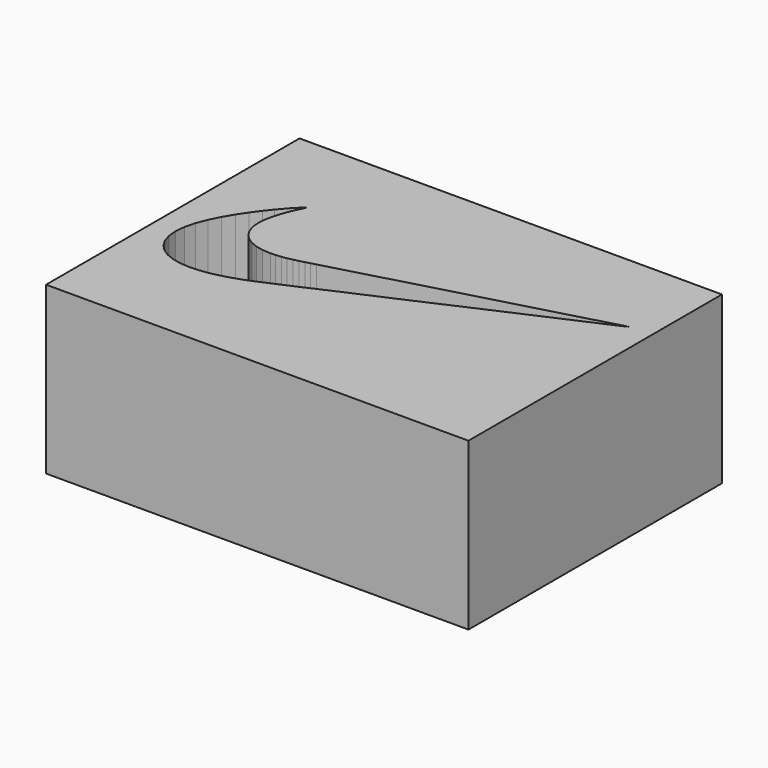
from build123d import *

# Parameters (mm, degrees)
F0_W     = 50.8
F0_H     = 38.1
F1_DEPTH = 15
F2_W     = 50.8
F2_H     = 38.1
F3_DEPTH = 5


with BuildPart() as f1:
    # F0 (on Top) → F1 (new body)
    with BuildSketch(Plane.XY):
        with Locations((0.006754, -0.385052)):
            Rectangle(F0_W, F0_H)
        Polygon((-22.587001, -4.469536), (-22.693503, -3.320542), (-22.574301, -2.117649), (-22.246311, -0.874547), (-21.750706, 0.381152), (-21.128711, 1.621739), (-20.421321, 2.819552), (-19.669709, 3.946957), (-18.915101, 4.976343), (-18.198617, 5.879948), (-17.14312, 7.106056), (-16.014217, 8.231048), (-16.09852, 8.018755), (-16.293211, 7.610958), (-16.560698, 7.039661), (-16.86372, 6.33664), (-17.16471, 5.53405), (-17.426508, 4.663948), (-17.61142, 3.758159), (-17.682312, 2.848661), (-17.591405, 1.894357), (-17.326102, 1.061263), (-16.9021, 0.351358), (-16.335121, -0.233655), (-15.640812, -0.691845), (-14.834718, -1.021461), (-13.932713, -1.220445), (-12.950317, -1.287247), (-12.318619, -1.26426), (-11.694998, -1.199947), (-11.079709, -1.10175), (-10.473004, -0.97696), (-9.875012, -0.832739), (-9.28591, -0.676554), (-8.706002, -0.515544), (-8.135417, -0.357048), (21.5884, 7.769758), (21.848293, 7.84446), (22.140291, 7.931353), (22.432696, 8.010246), (22.693503, 8.060639), (22.673793, 8.043342), (22.076791, 7.75876), (12.970688, 3.726256), (11.150803, 2.922448), (9.327185, 2.112747), (7.501788, 1.299845), (5.67629, 0.486054), (3.852291, -0.325958), (2.031594, -1.133653), (0.215798, -1.93454), (-1.593317, -2.726055), (-2.496617, -3.122752), (-3.408604, -3.528644), (-4.325798, -3.939845), (-5.244998, -4.35295), (-6.162904, -4.764253), (-7.076313, -5.170043), (-7.981721, -5.56674), (-8.876005, -5.950737), (-9.502419, -6.224448), (-10.069805, -6.478651), (-10.654513, -6.730136), (-11.33282, -6.995643), (-11.975719, -7.225741), (-12.652502, -7.448855), (-13.357301, -7.657541), (-14.0843, -7.844561), (-14.827402, -8.002753), (-15.580919, -8.124749), (-16.338804, -8.20326), (-17.095318, -8.231048), (-18.267909, -8.15406), (-19.339814, -7.923251), (-20.293813, -7.538847), (-21.11281, -7.001053), (-21.779408, -6.310046), (-22.276613, -5.466156), align=None, mode=Mode.SUBTRACT)
    extrude(amount=F1_DEPTH)

    # F2 (on face) → F3 (join)
    with BuildSketch(Plane(origin=(0, 0, 0), x_dir=(1, 0, 0), z_dir=(0, 0, -1))):
        with Locations((0.006754, 0.385052)):
            Rectangle(F2_W, F2_H)
    extrude(amount=F3_DEPTH)


solid = f1.part
